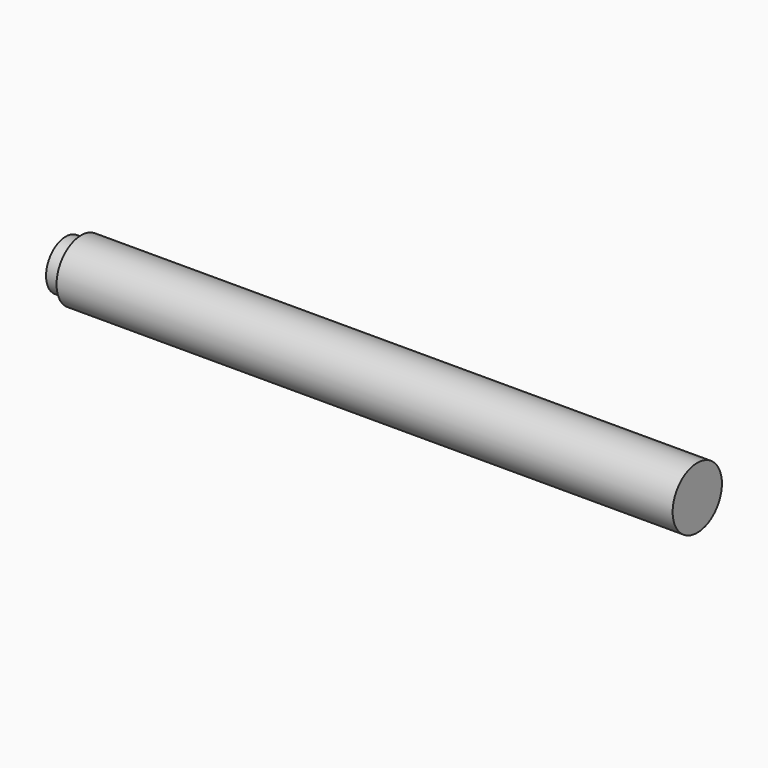
from build123d import *

# Parameters (mm, degrees)
F0_R     = 5
F1_DEPTH = 100
F2_R     = 4
F3_DEPTH = 2.5


with BuildPart() as f1:
    # F0 (on Right) → F1 (new body)
    with BuildSketch(Plane.YZ):
        Circle(F0_R)
    extrude(amount=F1_DEPTH)

    # F2 (on Right) → F3 (join)
    with BuildSketch(Plane.YZ):
        Circle(F2_R)
    extrude(amount=-F3_DEPTH)


solid = f1.part
